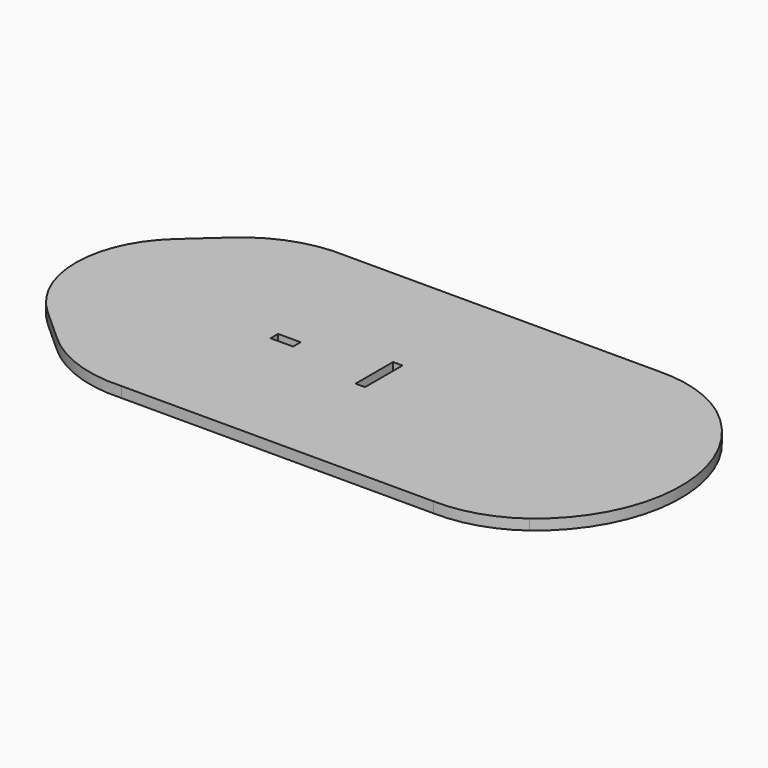
from build123d import *

# Parameters (mm, degrees)
F0_W     = 10
F0_H     = 4.2
F0_W_2   = 4.2
F0_H_2   = 20.833438
F1_DEPTH = 4.7


with BuildPart() as f1:
    # F0 (on Top) → F1 (new body)
    with BuildSketch(Plane.XY):
        with BuildLine():
            Line((60.174615, -495.912883), (-78.181378, -495.912883))
            ThreePointArc((-78.181378, -495.912883), (-99.816297, -499.034083), (-118.519512, -510.347852))
            Line((-118.519512, -510.347852), (-132.84981, -523.258513))
            ThreePointArc((-132.84981, -523.258513), (-148.495374, -558.412883), (-132.84981, -593.567252))
            Line((-132.84981, -593.567252), (-118.519512, -606.477914))
            ThreePointArc((-118.519512, -606.477914), (-99.816297, -617.791683), (-78.181378, -620.912883))
            Line((-78.181378, -620.912883), (60.174615, -620.912883))
            ThreePointArc((60.174615, -620.912883), (78.137251, -618.43106), (94.31953, -610.248788))
            ThreePointArc((94.31953, -610.248788), (120.10169, -558.412883), (94.31953, -506.576978))
            ThreePointArc((94.31953, -506.576978), (78.137251, -498.394706), (60.174615, -495.912883))
        make_face()
        with Locations((-55.318067, -558.519528)):
            Rectangle(F0_W, F0_H, mode=Mode.SUBTRACT)
        with Locations((-13.915808, -558.412883)):
            Rectangle(F0_W_2, F0_H_2, mode=Mode.SUBTRACT)
        with BuildLine():
            Line((60.174615, -495.912883), (-78.181378, -495.912883))
            ThreePointArc((-78.181378, -495.912883), (-99.816297, -499.034083), (-118.519512, -510.347852))
            Line((-118.519512, -510.347852), (-132.84981, -523.258513))
            ThreePointArc((-132.84981, -523.258513), (-148.495374, -558.412883), (-132.84981, -593.567252))
            Line((-132.84981, -593.567252), (-118.519512, -606.477914))
            ThreePointArc((-118.519512, -606.477914), (-99.816297, -617.791683), (-78.181378, -620.912883))
            Line((-78.181378, -620.912883), (60.174615, -620.912883))
            ThreePointArc((60.174615, -620.912883), (78.137251, -618.43106), (94.31953, -610.248788))
            ThreePointArc((94.31953, -610.248788), (120.10169, -558.412883), (94.31953, -506.576978))
            ThreePointArc((94.31953, -506.576978), (78.137251, -498.394706), (60.174615, -495.912883))
        make_face()
        with Locations((-55.318067, -558.519528)):
            Rectangle(F0_W, F0_H, mode=Mode.SUBTRACT)
        with Locations((-13.915808, -558.412883)):
            Rectangle(F0_W_2, F0_H_2, mode=Mode.SUBTRACT)
    extrude(amount=F1_DEPTH)


solid = f1.part
